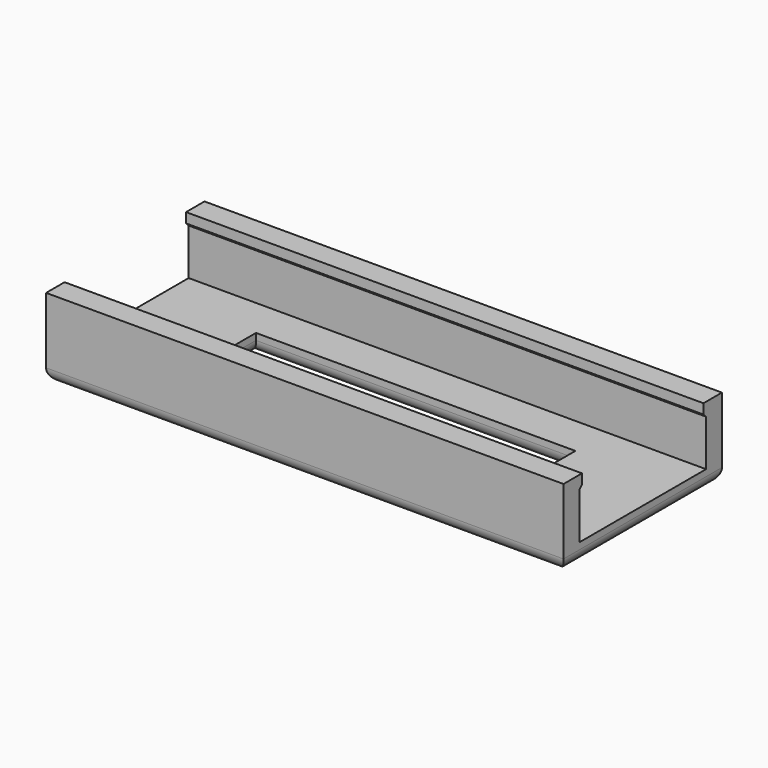
from build123d import *

# Parameters (mm, degrees)
PAD_DEPTH    = 39.2
SKETCH001_W  = 7
SKETCH001_H  = 24.2
POCKET_DEPTH = 6.001
FILLET_R     = 1


with BuildPart() as part:
    # Sketch → Pad (new body)
    with BuildSketch(Plane.YZ):
        Polygon((7.5, 0), (7.5, 6), (5.75, 6), (5.75, 5.25), (6, 5), (6, 1.5), (-6, 1.5), (-6, 5), (-5.75, 5.25), (-5.75, 6), (-7.5, 6), (-7.5, 0), align=None)
    extrude(amount=PAD_DEPTH)

    # Sketch001 (on Face12 of Pad) → Pocket (cut, through all)
    with BuildSketch(Plane.YX):
        with Locations((-0.5, 19.6)):
            Rectangle(SKETCH001_W, SKETCH001_H)
    extrude(amount=-POCKET_DEPTH, mode=Mode.SUBTRACT)

    # Fillet
    fillet_edges = [part.edges().sort_by_distance(p)[0] for p in [
        (19.6, -7.5, 0),
        (0, 0, 0),
        (39.2, 0, 0),
        (19.6, 7.5, 0),
        (19.6, -4, 0),
        (31.7, -0.5, 0),
        (19.6, 3, 0),
        (7.5, -0.5, 0),
    ]]
    fillet(fillet_edges, radius=FILLET_R)


solid = part.part
